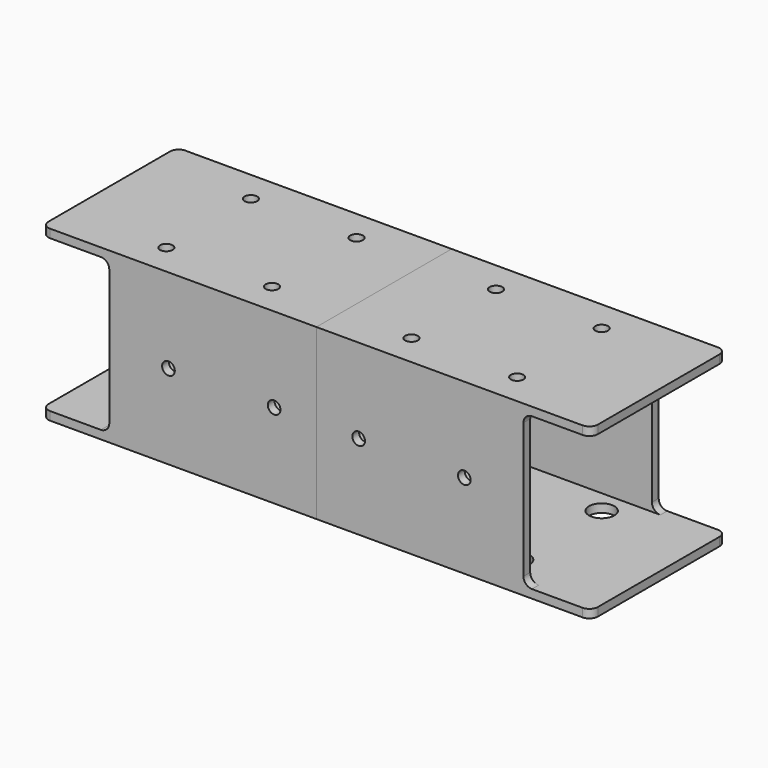
from build123d import *

# Parameters (mm, degrees)
F0_W          = 40
F0_H          = 40
F1_DEPTH      = 65
F2_T          = -2
F4_D          = 3
F4_DEPTH      = 40
F4_TIP        = 0.9012909285
F5_D          = 6
F5_DEPTH      = 3
F5_TIP        = 1.8025818571
F6_W          = 16
F6_H          = 36
F7_DEPTH      = 2.001
F7_DEPTH_BACK = 38.001
F8_R          = 2
F9_D          = 3
F9_DEPTH      = 3
F9_TIP        = 0.9012909285
F10_D         = 6
F10_DEPTH     = 40
F10_TIP       = 1.8025818571


with BuildPart() as f1:
    # F0 (on Right) → F1 (new body)
    with BuildSketch(Plane.YZ):
        Rectangle(F0_W, F0_H)
    extrude(amount=-F1_DEPTH)

    # F2
    f2_openings = [f1.faces().sort_by_distance(p)[0] for p in [
        (-65, 0, 0),
        (0, 0, 0),
    ]]
    offset(amount=F2_T, openings=f2_openings)

    # F4 (one way)
    with BuildSketch(Plane(origin=(0, 0, -18), x_dir=(1, 0, 0), z_dir=(0, 0, -1))):
        with Locations((-41.5, -12.5), (-16.5, -12.5), (-41.5, 12.5), (-16.5, 12.5)):
            Circle(F4_D / 2)
    extrude(amount=-F4_DEPTH, mode=Mode.SUBTRACT)
    with Locations(Plane(origin=(0, 0, -18), x_dir=(1, 0, 0), z_dir=(0, 0, -1))):
        with Locations((-41.5, -12.5), (-16.5, -12.5), (-41.5, 12.5), (-16.5, 12.5)):
            with Locations((0, 0, -(F4_DEPTH + F4_TIP / 2))):  # 118° drill point
                Cone(0, F4_D / 2, F4_TIP, mode=Mode.SUBTRACT)

    # F5 (one way)
    with BuildSketch(Plane.XY.offset(-18)):
        with Locations((-41.5, 12.5), (-41.5, -12.5), (-16.5, -12.5), (-16.5, 12.5)):
            Circle(F5_D / 2)
    extrude(amount=-F5_DEPTH, mode=Mode.SUBTRACT)
    with Locations(Plane.XY.offset(-18)):
        with Locations((-41.5, 12.5), (-41.5, -12.5), (-16.5, -12.5), (-16.5, 12.5)):
            with Locations((0, 0, -(F5_DEPTH + F5_TIP / 2))):  # 118° drill point
                Cone(0, F5_D / 2, F5_TIP, mode=Mode.SUBTRACT)

    # F6 (on face) → F7 (cut, two sides)
    with BuildSketch(Plane(origin=(0, -18, 0), x_dir=(-1, 0, 0), z_dir=(0, 1, 0))) as f7_sk:
        with Locations((57, 0)):
            Rectangle(F6_W, F6_H)
        with Locations((57, 0)):
            Rectangle(F6_W, F6_H)
    extrude(amount=-F7_DEPTH, mode=Mode.SUBTRACT)
    extrude(f7_sk.sketch, amount=F7_DEPTH_BACK, mode=Mode.SUBTRACT)

    # F8
    f8_edges = [f1.edges().sort_by_distance(p)[0] for p in [
        (-49, -19, 18),
        (-49, 19, 18),
        (-49, 19, -18),
        (-49, -19, -18),
        (-65, 20, 19),
        (-65, -20, 19),
        (-65, -20, -19),
        (-65, 20, -19),
    ]]
    fillet(f8_edges, radius=F8_R)

    # F9 (one way)
    with BuildSketch(Plane(origin=(0, -18, 0), x_dir=(-1, 0, 0), z_dir=(0, 1, 0))):
        with Locations((35, 0), (10, 0)):
            Circle(F9_D / 2)
    extrude(amount=-F9_DEPTH, mode=Mode.SUBTRACT)
    with Locations(Plane(origin=(0, -18, 0), x_dir=(-1, 0, 0), z_dir=(0, 1, 0))):
        with Locations((35, 0), (10, 0)):
            with Locations((0, 0, -(F9_DEPTH + F9_TIP / 2))):  # 118° drill point
                Cone(0, F9_D / 2, F9_TIP, mode=Mode.SUBTRACT)

    # F10 (one way)
    with BuildSketch(Plane(origin=(0, -18, 0), x_dir=(-1, 0, 0), z_dir=(0, -1, 0))):
        with Locations((35, 0)):
            Circle(F10_D / 2)
    extrude(amount=-F10_DEPTH, mode=Mode.SUBTRACT)
    with Locations(Plane(origin=(0, -18, 0), x_dir=(-1, 0, 0), z_dir=(0, -1, 0))):
        with Locations((35, 0)):
            with Locations((0, 0, -(F10_DEPTH + F10_TIP / 2))):  # 118° drill point
                Cone(0, F10_D / 2, F10_TIP, mode=Mode.SUBTRACT)


with BuildPart() as f11_1:
    # F11: instance of F1
    add(f1.part.mirror(Plane.YZ))


solid = Compound([f1.part, f11_1.part])
